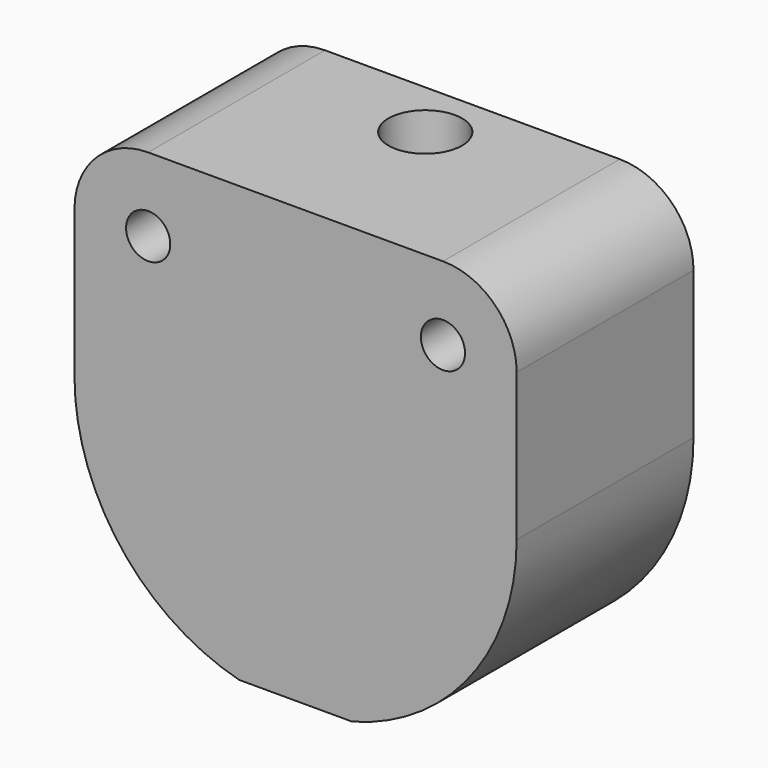
from build123d import *

# Parameters (mm, degrees)
F1_DEPTH = 15
F2_R     = 1.5
F3_DEPTH = 25
F4_R     = 5
F5_R     = 2.5
F6_DEPTH = 29.501


with BuildPart() as f1:
    # F0 (on Front) → F1 (new body)
    with BuildSketch(Plane.XZ):
        with BuildLine():
            Line((15, 0), (15, 15))
            Line((15, 15), (0, 15))
            ThreePointArc((0, 15), (10.606602, 10.606602), (15, 0))
        make_face()
        with BuildLine():
            ThreePointArc((-15, 0), (-10.606602, 10.606602), (0, 15))
            Line((0, 15), (-15, 15))
            Line((-15, 15), (-15, 0))
        make_face()
        with BuildLine():
            ThreePointArc((15, 0), (10.606602, 10.606602), (0, 15))
            ThreePointArc((0, 15), (-10.606602, 10.606602), (-15, 0))
            ThreePointArc((-15, 0), (-11.887148, -9.148536), (-3.840573, -14.5))
            Line((-3.840573, -14.5), (3.840573, -14.5))
            ThreePointArc((3.840573, -14.5), (11.887148, -9.148536), (15, 0))
        make_face()
    extrude(amount=F1_DEPTH)

    # F2 (on face) → F3 (cut)
    with BuildSketch(Plane(origin=(0, 0, 0), x_dir=(-1, 0, 0), z_dir=(0, 1, 0))):
        with Locations((10, 10)):
            Circle(F2_R)
        with Locations((-10, 10)):
            Circle(F2_R)
    extrude(amount=-F3_DEPTH, mode=Mode.SUBTRACT)

    # F4
    f4_edges = [f1.edges().sort_by_distance(p)[0] for p in [
        (-15, -7.5, 15),
        (15, -7.5, 15),
    ]]
    fillet(f4_edges, radius=F4_R)

    # F5 (on face) → F6 (cut, through all)
    with BuildSketch(Plane.XY.offset(15)):
        with Locations((0, -4)):
            Circle(F5_R)
    extrude(amount=-F6_DEPTH, mode=Mode.SUBTRACT)


solid = f1.part
